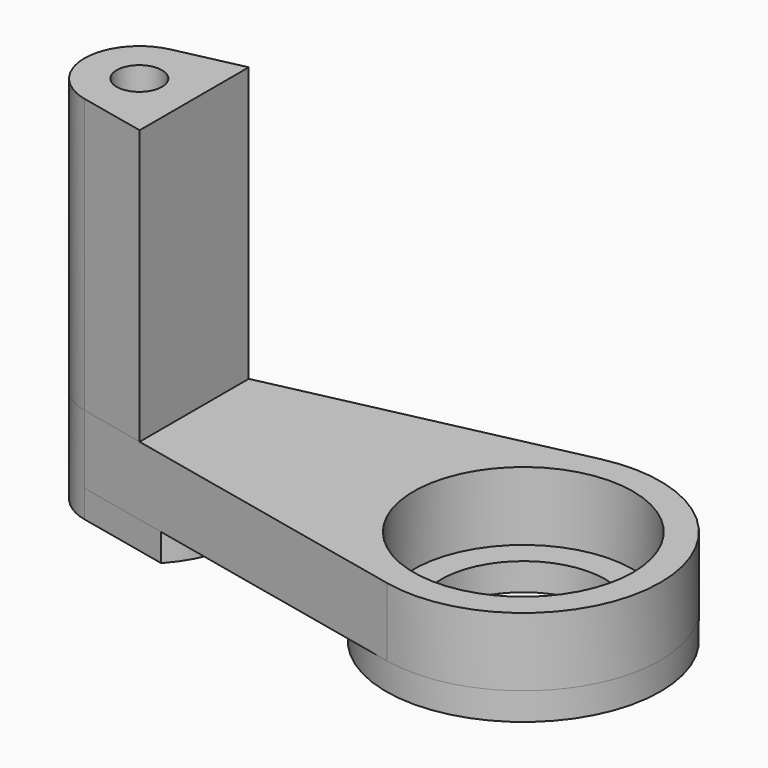
from build123d import *

# Parameters (mm, degrees)
SKETCH_R      = 8
PAD_DEPTH     = 5
PAD001_DEPTH  = 20
SKETCH002_R   = 10
SKETCH002_R_2 = 6
PAD002_DEPTH  = 2
PAD003_DEPTH  = 2
SKETCH004_R   = 1.65
POCKET_DEPTH  = 27.001


with BuildPart() as part:
    # Sketch → Pad (new body)
    with BuildSketch(Plane.XY):
        with BuildLine():
            ThreePointArc((-2.142857, -9.76771), (10, 0), (-2.142857, 9.76771))
            Line((-28.857143, 3.907084), (-2.142857, 9.76771))
            ThreePointArc((-28.857143, 3.907084), (-32, 0), (-28.857143, -3.907084))
            Line((-2.142857, -9.76771), (-28.857143, -3.907084))
        make_face()
        Circle(SKETCH_R, mode=Mode.SUBTRACT)
    extrude(amount=PAD_DEPTH)

    # Sketch001 (on Face7 of Pad) → Pad001 (join)
    with BuildSketch(Plane.XY.offset(5)):
        with BuildLine():
            ThreePointArc((-28.857143, 3.907084), (-32, -1.3e-05), (-28.857117, -3.90709))
            Line((-24, -4.972619), (-28.857117, -3.90709))
            Line((-24, -4.972619), (-24, 4.972653))
            Line((-24, 4.972653), (-28.857143, 3.907084))
        make_face()
    extrude(amount=PAD001_DEPTH)

    # Sketch002 → Pad002 (join)
    with BuildSketch(Plane(origin=(0, 0, 0), x_dir=(1, 0, 0), z_dir=(0, 0, -1))):
        Circle(SKETCH002_R)
        Circle(SKETCH002_R_2, mode=Mode.SUBTRACT)
    extrude(amount=PAD002_DEPTH)

    # Sketch003 (on Face7 of Pad002) → Pad003 (join)
    with BuildSketch(Plane(origin=(0, 0, 0), x_dir=(1, 0, 0), z_dir=(0, 0, -1))):
        with BuildLine():
            ThreePointArc((-28.857143, 3.907084), (-32, 0), (-28.857143, -3.907084))
            Line((-28.857143, -3.907084), (-22.089875, -5.391699))
            ThreePointArc((-22.089875, -5.391699), (-20, 0), (-22.089875, 5.391699))
            Line((-22.089875, 5.391699), (-28.857143, 3.907084))
        make_face()
    extrude(amount=PAD003_DEPTH)

    # Sketch004 (on Face18 of Pad003) → Pocket (cut, through all)
    with BuildSketch(Plane(origin=(0, 0, -2), x_dir=(1, 0, 0), z_dir=(0, 0, -1))):
        with Locations((-28, 0)):
            Circle(SKETCH004_R)
    extrude(amount=-POCKET_DEPTH, mode=Mode.SUBTRACT)


solid = part.part
